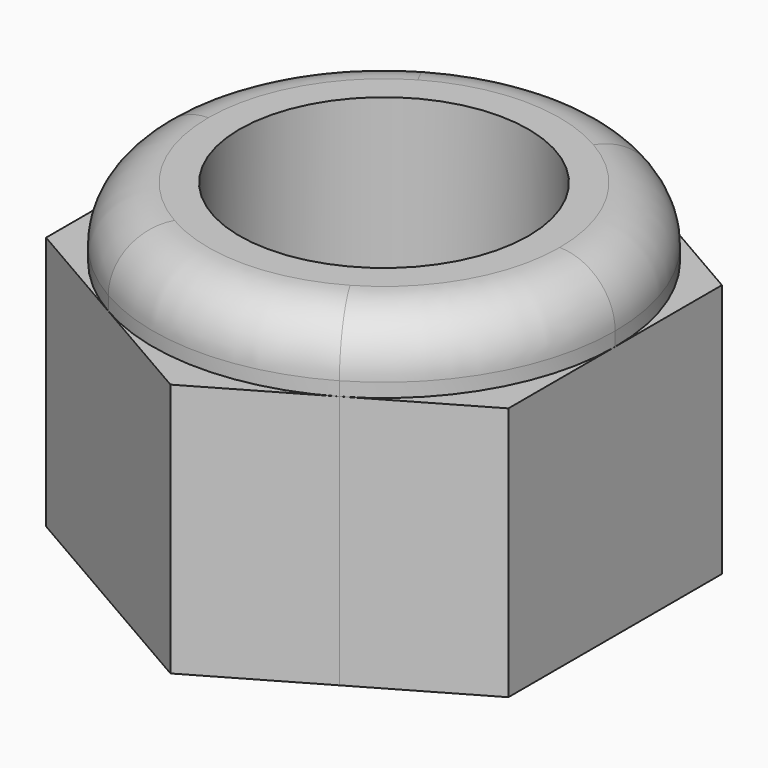
from build123d import *

# Parameters (mm, degrees)
F0_R     = 3.96875
F1_DEPTH = 6.985
F2_DEPTH = 8.89
F3_R     = 1.524


with BuildPart() as f1:
    # F0 (on Top) → F1 (new body)
    with BuildSketch(Plane.XY):
        with BuildLine():
            Line((-6.35, -3.6661742094), (-3.174999936, -5.499261351))
            ThreePointArc((-3.174999936, -5.499261351), (-5.4992612955, -3.175000032), (-6.35, 0))
            Line((-6.35, 0), (-6.35, -3.6661742094))
        make_face()
        with BuildLine():
            ThreePointArc((-6.35, 0), (-5.4992613406, 3.174999954), (-3.175000092, 5.4992612609))
            Line((-3.175000092, 5.4992612609), (-6.35, 3.6661742094))
            Line((-6.35, 3.6661742094), (-6.35, 0))
        make_face()
        with BuildLine():
            ThreePointArc((-3.175000092, 5.4992612609), (-1.72e-08, 6.35), (3.1750000622, 5.4992612781))
            Line((3.1750000622, 5.4992612781), (0, 7.3323484187))
            Line((0, 7.3323484187), (-3.175000092, 5.4992612609))
        make_face()
        with BuildLine():
            ThreePointArc((3.1750000622, 5.4992612781), (5.499261332, 3.1749999689), (6.35, 0))
            Line((6.35, 0), (6.35, 3.6661742094))
            Line((6.35, 3.6661742094), (3.1750000622, 5.4992612781))
        make_face()
        with BuildLine():
            Line((6.35, -3.6661742094), (6.35, 0))
            ThreePointArc((6.35, 0), (5.4992613128, -3.1750000022), (3.1749999956, -5.4992613166))
            Line((3.1749999956, -5.4992613166), (6.35, -3.6661742094))
        make_face()
        with BuildLine():
            Line((0, -7.3323484187), (3.1749999956, -5.4992613166))
            ThreePointArc((3.1749999956, -5.4992613166), (3.44e-08, -6.35), (-3.174999936, -5.499261351))
            Line((-3.174999936, -5.499261351), (0, -7.3323484187))
        make_face()
        with BuildLine():
            ThreePointArc((3.1749999956, -5.4992613166), (5.4992613128, -3.1750000022), (6.35, 0))
            ThreePointArc((6.35, 0), (5.499261332, 3.1749999689), (3.1750000622, 5.4992612781))
            ThreePointArc((3.1750000622, 5.4992612781), (-1.72e-08, 6.35), (-3.175000092, 5.4992612609))
            ThreePointArc((-3.175000092, 5.4992612609), (-5.4992613406, 3.174999954), (-6.35, 0))
            ThreePointArc((-6.35, 0), (-5.4992612955, -3.175000032), (-3.174999936, -5.499261351))
            ThreePointArc((-3.174999936, -5.499261351), (3.44e-08, -6.35), (3.1749999956, -5.4992613166))
        make_face()
        Circle(F0_R, mode=Mode.SUBTRACT)
    extrude(amount=F1_DEPTH)

    # F0 (on Top) → F2 (join)
    with BuildSketch(Plane.XY):
        with BuildLine():
            ThreePointArc((3.1749999956, -5.4992613166), (5.4992613128, -3.1750000022), (6.35, 0))
            ThreePointArc((6.35, 0), (5.499261332, 3.1749999689), (3.1750000622, 5.4992612781))
            ThreePointArc((3.1750000622, 5.4992612781), (-1.72e-08, 6.35), (-3.175000092, 5.4992612609))
            ThreePointArc((-3.175000092, 5.4992612609), (-5.4992613406, 3.174999954), (-6.35, 0))
            ThreePointArc((-6.35, 0), (-5.4992612955, -3.175000032), (-3.174999936, -5.499261351))
            ThreePointArc((-3.174999936, -5.499261351), (3.44e-08, -6.35), (3.1749999956, -5.4992613166))
        make_face()
        Circle(F0_R, mode=Mode.SUBTRACT)
    extrude(amount=F2_DEPTH)

    # F3
    f3_edges = [f1.edges().sort_by_distance(p)[0] for p in [
        (3.175, -5.499261, 8.89),
    ]]
    fillet(f3_edges, radius=F3_R)


solid = f1.part
